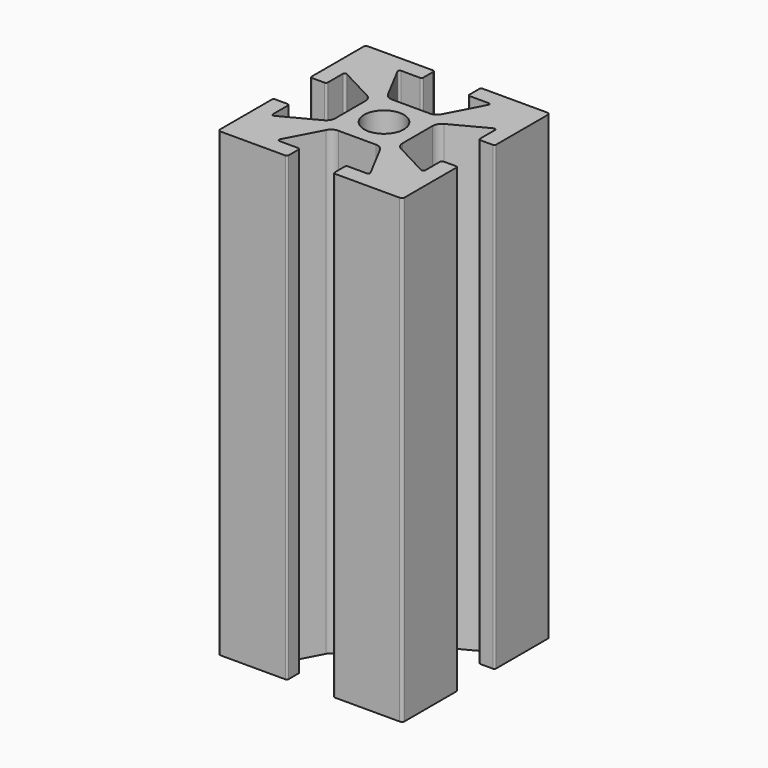
from build123d import *

# Parameters (mm, degrees)
F0_R     = 2.15
F1_DEPTH = 50


with BuildPart() as f1:
    # F0 (on Top) → F1 (new body)
    with BuildSketch(Plane.XY):
        with BuildLine():
            Line((-2.699069, 10), (-9.7, 10))
            ThreePointArc((-9.7, 10), (-9.912132, 9.912132), (-10, 9.7))
            Line((-10, 9.7), (-10, 2.699069))
            ThreePointArc((-10, 2.699069), (-9.941694, 2.558306), (-9.800931, 2.5))
            Line((-9.800931, 2.5), (-8.449069, 2.5))
            ThreePointArc((-8.449069, 2.5), (-8.308306, 2.558306), (-8.25, 2.699069))
            Line((-8.25, 2.699069), (-8.25, 4.730027))
            ThreePointArc((-8.25, 4.730027), (-8.153763, 4.90048), (-7.958101, 4.906127))
            Line((-7.958101, 4.906127), (-4.183679, 2.916455))
            ThreePointArc((-4.183679, 2.916455), (-3.793752, 2.548405), (-3.65, 2.03184))
            Line((-3.65, 2.03184), (-3.65, 0))
            Line((-3.65, 0), (-3.65, -2.03184))
            ThreePointArc((-3.65, -2.03184), (-3.793752, -2.548405), (-4.183679, -2.916455))
            Line((-4.183679, -2.916455), (-7.958101, -4.906127))
            ThreePointArc((-7.958101, -4.906127), (-8.153763, -4.90048), (-8.25, -4.730027))
            Line((-8.25, -4.730027), (-8.25, -2.699069))
            ThreePointArc((-8.25, -2.699069), (-8.308306, -2.558306), (-8.449069, -2.5))
            Line((-8.449069, -2.5), (-9.800931, -2.5))
            ThreePointArc((-9.800931, -2.5), (-9.941694, -2.558306), (-10, -2.699069))
            Line((-10, -2.699069), (-10, -9.7))
            ThreePointArc((-10, -9.7), (-9.912132, -9.912132), (-9.7, -10))
            Line((-9.7, -10), (-2.699069, -10))
            ThreePointArc((-2.699069, -10), (-2.558306, -9.941694), (-2.5, -9.800931))
            Line((-2.5, -9.800931), (-2.5, -8.449069))
            ThreePointArc((-2.5, -8.449069), (-2.558306, -8.308306), (-2.699069, -8.25))
            Line((-2.699069, -8.25), (-4.730027, -8.25))
            ThreePointArc((-4.730027, -8.25), (-4.90048, -8.153763), (-4.906127, -7.958101))
            Line((-4.906127, -7.958101), (-2.916455, -4.183679))
            ThreePointArc((-2.916455, -4.183679), (-2.548405, -3.793752), (-2.03184, -3.65))
            Line((-2.03184, -3.65), (0, -3.65))
            Line((0, -3.65), (2.03184, -3.65))
            ThreePointArc((2.03184, -3.65), (2.548405, -3.793752), (2.916455, -4.183679))
            Line((2.916455, -4.183679), (4.906127, -7.958101))
            ThreePointArc((4.906127, -7.958101), (4.90048, -8.153763), (4.730027, -8.25))
            Line((4.730027, -8.25), (2.699069, -8.25))
            ThreePointArc((2.699069, -8.25), (2.558306, -8.308306), (2.5, -8.449069))
            Line((2.5, -8.449069), (2.5, -9.800931))
            ThreePointArc((2.5, -9.800931), (2.558306, -9.941694), (2.699069, -10))
            Line((2.699069, -10), (9.7, -10))
            ThreePointArc((9.7, -10), (9.912132, -9.912132), (10, -9.7))
            Line((10, -9.7), (10, -2.699069))
            ThreePointArc((10, -2.699069), (9.941694, -2.558306), (9.800931, -2.5))
            Line((9.800931, -2.5), (8.449069, -2.5))
            ThreePointArc((8.449069, -2.5), (8.308306, -2.558306), (8.25, -2.699069))
            Line((8.25, -2.699069), (8.25, -4.730027))
            ThreePointArc((8.25, -4.730027), (8.153763, -4.90048), (7.958101, -4.906127))
            Line((7.958101, -4.906127), (4.183679, -2.916455))
            ThreePointArc((4.183679, -2.916455), (3.793752, -2.548405), (3.65, -2.03184))
            Line((3.65, -2.03184), (3.65, 0))
            Line((3.65, 0), (3.65, 2.03184))
            ThreePointArc((3.65, 2.03184), (3.793752, 2.548405), (4.183679, 2.916455))
            Line((4.183679, 2.916455), (7.958101, 4.906127))
            ThreePointArc((7.958101, 4.906127), (8.153763, 4.90048), (8.25, 4.730027))
            Line((8.25, 4.730027), (8.25, 2.699069))
            ThreePointArc((8.25, 2.699069), (8.308306, 2.558306), (8.449069, 2.5))
            Line((8.449069, 2.5), (9.800931, 2.5))
            ThreePointArc((9.800931, 2.5), (9.941694, 2.558306), (10, 2.699069))
            Line((10, 2.699069), (10, 9.7))
            ThreePointArc((10, 9.7), (9.912132, 9.912132), (9.7, 10))
            Line((9.7, 10), (2.699069, 10))
            ThreePointArc((2.699069, 10), (2.558306, 9.941694), (2.5, 9.800931))
            Line((2.5, 9.800931), (2.5, 8.449069))
            ThreePointArc((2.5, 8.449069), (2.558306, 8.308306), (2.699069, 8.25))
            Line((2.699069, 8.25), (4.730027, 8.25))
            ThreePointArc((4.730027, 8.25), (4.90048, 8.153763), (4.906127, 7.958101))
            Line((4.906127, 7.958101), (2.916455, 4.183679))
            ThreePointArc((2.916455, 4.183679), (2.548405, 3.793752), (2.03184, 3.65))
            Line((2.03184, 3.65), (0, 3.65))
            Line((0, 3.65), (-2.03184, 3.65))
            ThreePointArc((-2.03184, 3.65), (-2.548405, 3.793752), (-2.916455, 4.183679))
            Line((-2.916455, 4.183679), (-4.906127, 7.958101))
            ThreePointArc((-4.906127, 7.958101), (-4.90048, 8.153763), (-4.730027, 8.25))
            Line((-4.730027, 8.25), (-2.699069, 8.25))
            ThreePointArc((-2.699069, 8.25), (-2.558306, 8.308306), (-2.5, 8.449069))
            Line((-2.5, 8.449069), (-2.5, 9.800931))
            ThreePointArc((-2.5, 9.800931), (-2.558306, 9.941694), (-2.699069, 10))
        make_face()
        Circle(F0_R, mode=Mode.SUBTRACT)
    extrude(amount=F1_DEPTH)


solid = f1.part
